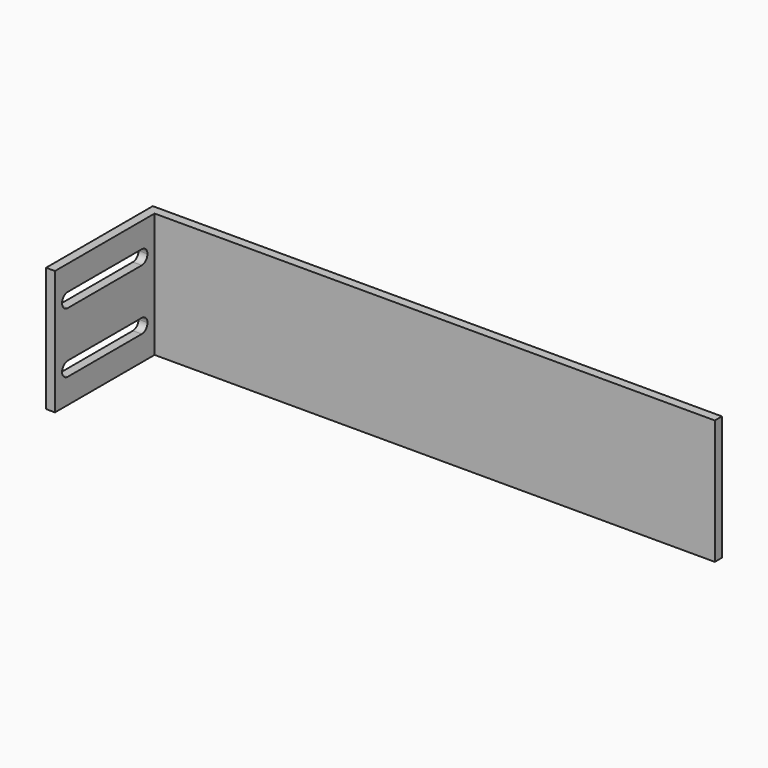
from build123d import *

# Parameters (mm, degrees)
F0_W     = 406.4
F0_H     = 88.9
F1_DEPTH = 6.35
F2_W     = 6.35
F2_H     = 88.9
F3_DEPTH = 88.9
F5_DEPTH = 25.4


with BuildPart() as f1:
    # F0 (on Front) → F1 (new body)
    with BuildSketch(Plane.XZ):
        with Locations((151.11976, 18.916855)):
            Rectangle(F0_W, F0_H)
    extrude(amount=F1_DEPTH)

    # F2 (on face) → F3 (join)
    with BuildSketch(Plane.XZ.offset(6.35)):
        with Locations((-48.90524, 18.916855)):
            Rectangle(F2_W, F2_H)
    extrude(amount=F3_DEPTH)

    # F4 (on face) → F5 (cut)
    with BuildSketch(Plane(origin=(-52.08024, 0, 0), x_dir=(0, -1, 0), z_dir=(-1, 0, 0))):
        with BuildLine():
            Line((17.78, 35.426855), (17.78, 45.586855))
            ThreePointArc((17.78, 45.586855), (14.187898, 44.098957), (12.7, 40.506855))
            ThreePointArc((12.7, 40.506855), (14.187898, 36.914752), (17.78, 35.426855))
        make_face()
        with BuildLine():
            ThreePointArc((22.86, 40.506855), (21.372102, 44.098957), (17.78, 45.586855))
            Line((17.78, 45.586855), (17.78, 35.426855))
            ThreePointArc((17.78, 35.426855), (21.372102, 36.914752), (22.86, 40.506855))
        make_face()
        with BuildLine():
            ThreePointArc((12.7, -2.673145), (14.187898, -6.265248), (17.78, -7.753145))
            Line((17.78, -7.753145), (17.78, 2.406855))
            ThreePointArc((17.78, 2.406855), (14.187898, 0.918957), (12.7, -2.673145))
        make_face()
        with BuildLine():
            Line((17.78, 2.406855), (17.78, -7.753145))
            ThreePointArc((17.78, -7.753145), (21.372102, -6.265248), (22.86, -2.673145))
            ThreePointArc((22.86, -2.673145), (21.372102, 0.918957), (17.78, 2.406855))
        make_face()
        with BuildLine():
            ThreePointArc((83.82, 35.426855), (78.74, 40.506855), (83.82, 45.586855))
            Line((83.82, 45.586855), (17.78, 45.586855))
            ThreePointArc((17.78, 45.586855), (21.372102, 44.098957), (22.86, 40.506855))
            ThreePointArc((22.86, 40.506855), (21.372102, 36.914752), (17.78, 35.426855))
            Line((17.78, 35.426855), (83.82, 35.426855))
        make_face()
        with BuildLine():
            Line((83.82, 35.426855), (83.82, 45.586855))
            ThreePointArc((83.82, 45.586855), (78.74, 40.506855), (83.82, 35.426855))
        make_face()
        with BuildLine():
            ThreePointArc((83.82, 35.426855), (87.412102, 36.914752), (88.9, 40.506855))
            ThreePointArc((88.9, 40.506855), (87.412102, 44.098957), (83.82, 45.586855))
            Line((83.82, 45.586855), (83.82, 35.426855))
        make_face()
        with BuildLine():
            Line((17.78, -7.753145), (83.82, -7.753145))
            ThreePointArc((83.82, -7.753145), (78.74, -2.673145), (83.82, 2.406855))
            Line((83.82, 2.406855), (17.78, 2.406855))
            ThreePointArc((17.78, 2.406855), (21.372102, 0.918957), (22.86, -2.673145))
            ThreePointArc((22.86, -2.673145), (21.372102, -6.265248), (17.78, -7.753145))
        make_face()
        with BuildLine():
            ThreePointArc((83.82, 2.406855), (78.74, -2.673145), (83.82, -7.753145))
            Line((83.82, -7.753145), (83.82, 2.406855))
        make_face()
        with BuildLine():
            ThreePointArc((83.82, -7.753145), (87.412102, -6.265248), (88.9, -2.673145))
            ThreePointArc((88.9, -2.673145), (87.412102, 0.918957), (83.82, 2.406855))
            Line((83.82, 2.406855), (83.82, -7.753145))
        make_face()
    extrude(amount=-F5_DEPTH, mode=Mode.SUBTRACT)


solid = f1.part
